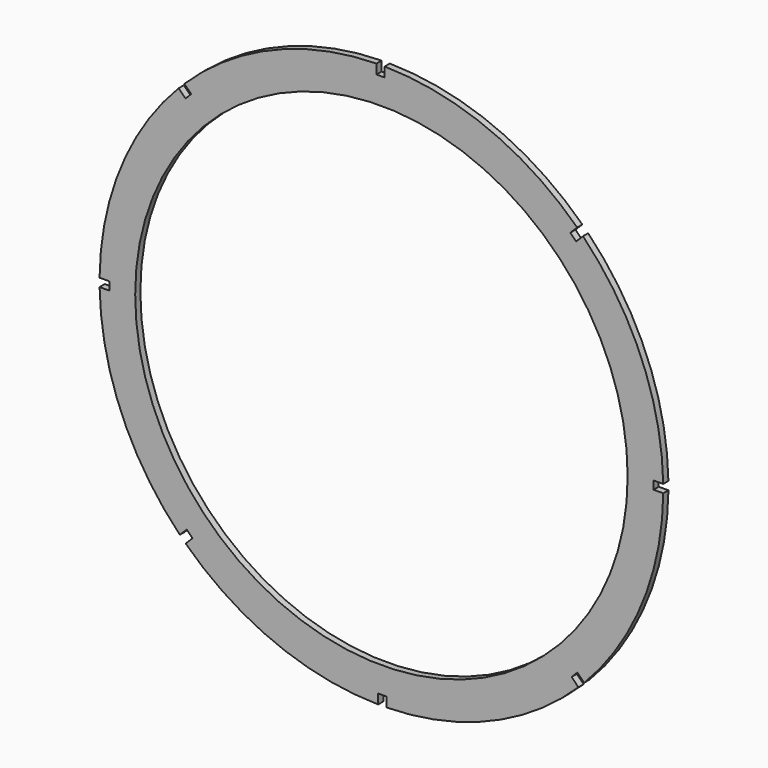
from build123d import *

# Parameters (mm, degrees)
F0_R     = 114
F1_DEPTH = 3


with BuildPart() as f1:
    # F0 (on Front) → F1 (new body)
    with BuildSketch(Plane.XZ):
        with BuildLine():
            Line((126, 2.3), (130.47973, 2.3))
            ThreePointArc((130.47973, 2.3), (120.412623, 50.309544), (93.331999, 91.210679))
            Line((93.331999, 91.210679), (90.156115, 88.034794))
            Line((90.156115, 88.034794), (87.469109, 90.7218))
            Line((87.469109, 90.7218), (90.636756, 93.889448))
            ThreePointArc((90.636756, 93.889448), (49.570362, 120.718802), (1.5, 130.491379))
            Line((1.5, 130.491379), (1.5, 126))
            Line((1.5, 126), (-2.3, 126))
            Line((-2.3, 126), (-2.3, 130.47973))
            ThreePointArc((-2.3, 130.47973), (-50.309544, 120.412623), (-91.210679, 93.331999))
            Line((-91.210679, 93.331999), (-88.034794, 90.156115))
            Line((-88.034794, 90.156115), (-90.7218, 87.469109))
            Line((-90.7218, 87.469109), (-93.889448, 90.636756))
            ThreePointArc((-93.889448, 90.636756), (-120.718802, 49.570362), (-130.491379, 1.5))
            Line((-130.491379, 1.5), (-126, 1.5))
            Line((-126, 1.5), (-126, -2.3))
            Line((-126, -2.3), (-130.47973, -2.3))
            ThreePointArc((-130.47973, -2.3), (-120.412623, -50.309544), (-93.331999, -91.210679))
            Line((-93.331999, -91.210679), (-90.156115, -88.034794))
            Line((-90.156115, -88.034794), (-87.469109, -90.7218))
            Line((-87.469109, -90.7218), (-90.636756, -93.889448))
            ThreePointArc((-90.636756, -93.889448), (-49.570362, -120.718802), (-1.5, -130.491379))
            Line((-1.5, -130.491379), (-1.5, -126))
            Line((-1.5, -126), (2.3, -126))
            Line((2.3, -126), (2.3, -130.47973))
            ThreePointArc((2.3, -130.47973), (50.309544, -120.412623), (91.210679, -93.331999))
            Line((91.210679, -93.331999), (88.034794, -90.156115))
            Line((88.034794, -90.156115), (90.7218, -87.469109))
            Line((90.7218, -87.469109), (93.889448, -90.636756))
            ThreePointArc((93.889448, -90.636756), (120.718802, -49.570362), (130.491379, -1.5))
            Line((130.491379, -1.5), (126, -1.5))
            Line((126, -1.5), (126, 2.3))
        make_face()
        Circle(F0_R, mode=Mode.SUBTRACT)
    extrude(amount=F1_DEPTH)


solid = f1.part
